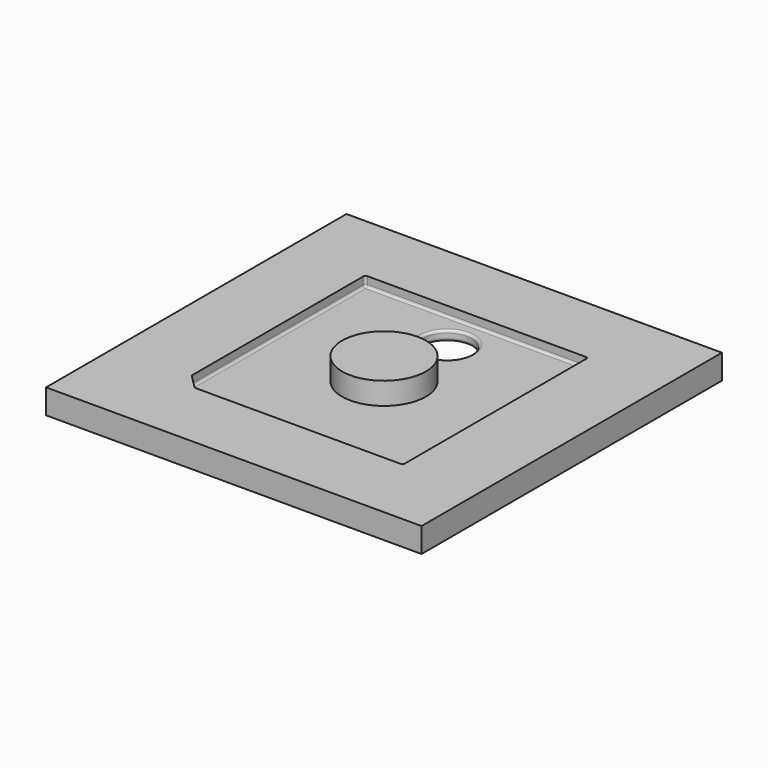
from build123d import *

# Parameters (mm, degrees)
BOX001_W          = 90.5
BOX001_H          = 94
BOX001_DEPTH      = 8
CHAMFER_SIZE      = 6
FILLET_R          = 1
FILLET001_R       = 0.5
FILLET002_R       = 1
BOX002_W          = 134
BOX002_H          = 134
BOX002_DEPTH      = 4
CHAMFER001_SIZE   = 0.5
FILLET003_R       = 0.5
FILLET004_R       = 0.5
FILLET005_R       = 0.5
FILLET006_R       = 0.5
CYLINDER_R        = 10
CYLINDER_DEPTH    = 20
BOX_W             = 152.4
BOX_H             = 152.4
BOX_DEPTH         = 10
FILLET007_R       = 1
CYLINDER001_R     = 17
CYLINDER001_DEPTH = 20


with BuildPart() as body:
    # Box001 → Box001 (join)
    with BuildSketch(Plane(origin=(-45.25, -47, 6), x_dir=(1, 0, 0), z_dir=(0, 0, 1))):
        with Locations((45.25, 47)):
            Rectangle(BOX001_W, BOX001_H)
    extrude(amount=BOX001_DEPTH)

    # Chamfer
    chamfer_edges = [body.edges().sort_by_distance(p)[0] for p in [
        (-45.25, -47, 10),
    ]]
    chamfer(chamfer_edges, length=CHAMFER_SIZE)

    # Fillet
    fillet_edges = [body.edges().sort_by_distance(p)[0] for p in [
        (45.25, 47, 10),
        (-45.25, 47, 10),
        (45.25, -47, 10),
    ]]
    fillet(fillet_edges, radius=FILLET_R)

    # Fillet001
    fillet001_edges = [body.edges().sort_by_distance(p)[0] for p in [
        (-45.25, -41, 10),
        (-39.25, -47, 10),
    ]]
    fillet(fillet001_edges, radius=FILLET001_R)

    # Fillet002
    fillet002_edges = [body.edges().sort_by_distance(p)[0] for p in [
        (-45.25, 2.603553, 6),
        (-45.21194, -40.984235, 6),
        (-42.25, -44, 6),
        (2.603553, -47, 6),
        (-39.234235, -46.96194, 6),
        (44.957107, -46.707107, 6),
        (45.25, 0, 6),
        (44.957107, 46.707107, 6),
        (0, 47, 6),
        (-44.957107, 46.707107, 6),
    ]]
    fillet(fillet002_edges, radius=FILLET002_R)


with BuildPart() as body002:
    # Box002 → Box002 (join)
    with BuildSketch(Plane(origin=(-67, -67, -2), x_dir=(1, 0, 0), z_dir=(0, 0, 1))):
        with Locations((67, 67)):
            Rectangle(BOX002_W, BOX002_H)
    extrude(amount=BOX002_DEPTH)

    # Chamfer001
    chamfer001_edges = [body002.edges().sort_by_distance(p)[0] for p in [
        (-67, -67, 0),
        (-67, 67, 0),
        (67, 67, 0),
        (67, -67, 0),
    ]]
    chamfer(chamfer001_edges, length=CHAMFER001_SIZE)

    # Fillet003
    fillet003_edges = [body002.edges().sort_by_distance(p)[0] for p in [
        (-66.5, -67, 0),
        (-67, -66.5, 0),
    ]]
    fillet(fillet003_edges, radius=FILLET003_R)

    # Fillet004
    fillet004_edges = [body002.edges().sort_by_distance(p)[0] for p in [
        (67, -66.5, 0),
        (66.5, -67, 0),
    ]]
    fillet(fillet004_edges, radius=FILLET004_R)

    # Fillet005
    fillet005_edges = [body002.edges().sort_by_distance(p)[0] for p in [
        (67, 66.5, 0),
        (66.5, 67, 0),
    ]]
    fillet(fillet005_edges, radius=FILLET005_R)

    # Fillet006
    fillet006_edges = [body002.edges().sort_by_distance(p)[0] for p in [
        (-67, 66.5, 0),
        (-66.5, 67, 0),
    ]]
    fillet(fillet006_edges, radius=FILLET006_R)


with BuildPart() as body004:
    # Cylinder → Cylinder (join)
    with BuildSketch(Plane(origin=(0, 32, -5), x_dir=(1, 0, 0), z_dir=(0, 0, 1))):
        Circle(CYLINDER_R)
    extrude(amount=CYLINDER_DEPTH)


with BuildPart() as base:
    # Box → Box (join)
    with BuildSketch(Plane(origin=(-76.2, -76.2, 0), x_dir=(1, 0, 0), z_dir=(0, 0, 1))):
        with Locations((76.2, 76.2)):
            Rectangle(BOX_W, BOX_H)
    extrude(amount=BOX_DEPTH)

    # Boolean: cut Body
    add(body.part, mode=Mode.SUBTRACT)

    # Boolean001: cut Body002, Body004
    add(body002.part, mode=Mode.SUBTRACT)
    add(body004.part, mode=Mode.SUBTRACT)

    # Fillet007
    fillet007_edges = [base.edges().sort_by_distance(p)[0] for p in [
        (-10, 32, 2),
        (10, 32, 4),
        (-10, 32, 6),
    ]]
    fillet(fillet007_edges, radius=FILLET007_R)


with BuildPart() as body005:
    # Cylinder001 → Cylinder001 (join)
    with BuildSketch(Plane.XY.offset(-5)):
        Circle(CYLINDER001_R)
    extrude(amount=CYLINDER001_DEPTH)


solid = Compound([base.part, body005.part])
